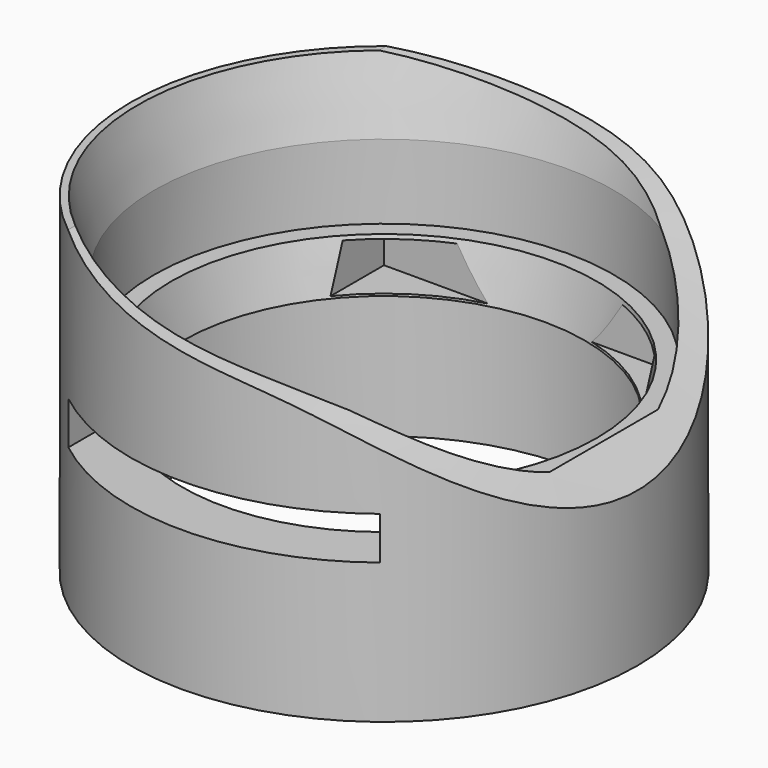
from build123d import *

# Parameters (mm, degrees)
F4_DEPTH = 26.001
F3_W     = 16
F3_H     = 2.2
F5_DEPTH = 23


with BuildPart() as f1:
    # F0 (on Front) → F1 (revolve)
    with BuildSketch(Plane.XZ):
        Polygon((-13, 0), (-11.8, 0), (-11.8, 7.1), (-11.8, 9.6), (-11.8, 13.4200323373), (-12.6346228644, 17), (-13, 17), align=None)
        Polygon((-11.8, 9.6), (-11.8, 7.1), (-10.3265667208, 7.1), (-10.9094091813, 9.6), align=None)
    revolve(axis=Axis((0, 0, 8.5), (0, 0, 1)))

    # F3 (on offset) → F4 (cut, through all)
    with BuildSketch(Plane.XZ.offset(13)):
        with BuildLine():
            add(Edge.make_bspline(
                [(-9.9011575398, 17.5226589309), (-10.2594239129, 18.308274348), (-11.2375961727, 20.4532348174), (-2.9366854637, 21.7150870272), (14.527182625, 22.1780936044), (24.3522467857, 14.4704645715), (20.6659768906, 6.8973925089), (20.535883493, 6.3841777406), (18.5511625655, 4.67363665), (17.0875235032, 3.4121924222)],
                knots=[0, 0, 0, 0, 0.0870359311, 0.2376336152, 0.4909532197, 0.6806586372, 0.8308190148, 0.8752369186, 1, 1, 1, 1], degree=3))
            add(Edge.make_bspline(
                [(-9.9011575398, 17.5226589309), (-1.0566617884, 14.9280194281), (5.2971986995, 15.8914451573), (12.9903821447, 8.1766160182), (17.0875235032, 3.4121924222)],
                knots=[0, 0, 0, 0, 0.5060819041, 1, 1, 1, 1], degree=3))
        make_face()
    extrude(amount=-F4_DEPTH, mode=Mode.SUBTRACT)

    # F3 (on offset) → F5 (cut)
    with BuildSketch(Plane.XZ.offset(13)):
        with Locations((0, 8.3)):
            Rectangle(F3_W, F3_H)
    extrude(amount=-F5_DEPTH, mode=Mode.SUBTRACT)


solid = f1.part
